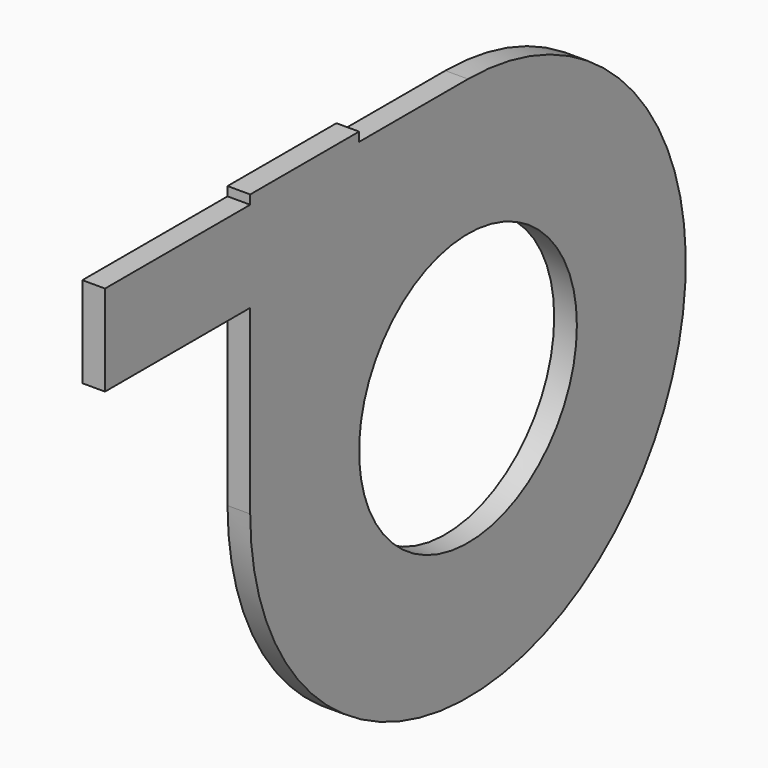
from build123d import *

# Parameters (mm, degrees)
F0_R     = 7.62
F0_W     = 7.62
F0_H     = 0.508
F1_DEPTH = 0.635


with BuildPart() as f1:
    # F0 (on Right) → F1 (new body, symmetric)
    with BuildSketch(Plane.YZ):
        with BuildLine():
            Line((-15.24, 15.24), (-25.4, 15.24))
            Line((-25.4, 15.24), (-25.4, 10.16))
            Line((-25.4, 10.16), (-15.24, 10.16))
            Line((-15.24, 10.16), (-15.24, 0))
            ThreePointArc((-15.24, 0), (10.776307, -10.776307), (0, 15.24))
            Line((0, 15.24), (-7.62, 15.24))
            Line((-7.62, 15.24), (-15.24, 15.24))
        make_face()
        Circle(F0_R, mode=Mode.SUBTRACT)
        with Locations((-11.43, 15.494)):
            Rectangle(F0_W, F0_H)
    extrude(amount=F1_DEPTH, both=True)


solid = f1.part
